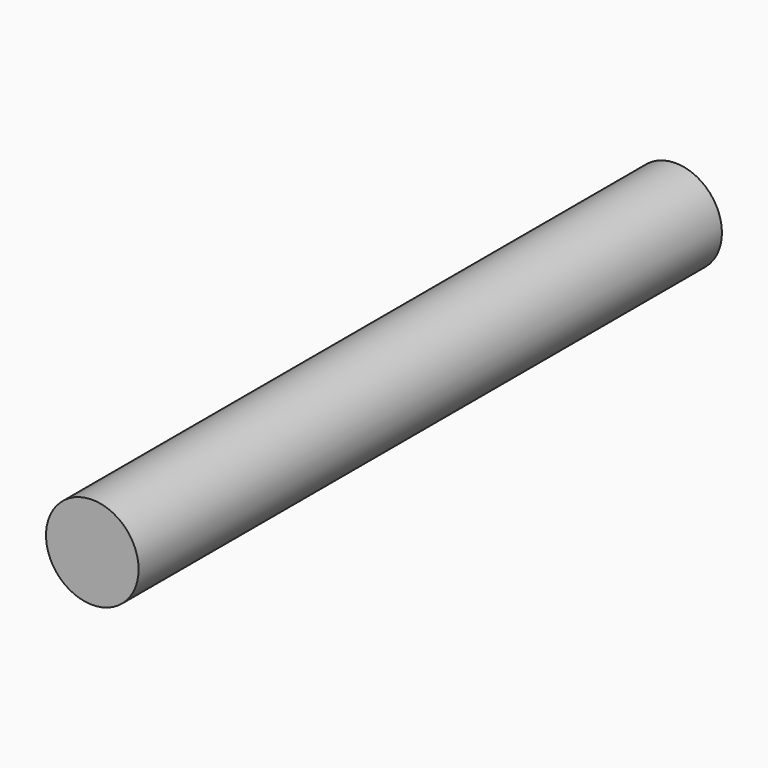
from build123d import *

# Parameters (mm, degrees)
SKETCH_R  = 25.4
PAD_DEPTH = 400


with BuildPart() as part:
    # Sketch → Pad (new body)
    with BuildSketch(Plane.XZ):
        Circle(SKETCH_R)
    extrude(amount=PAD_DEPTH)


solid = part.part
